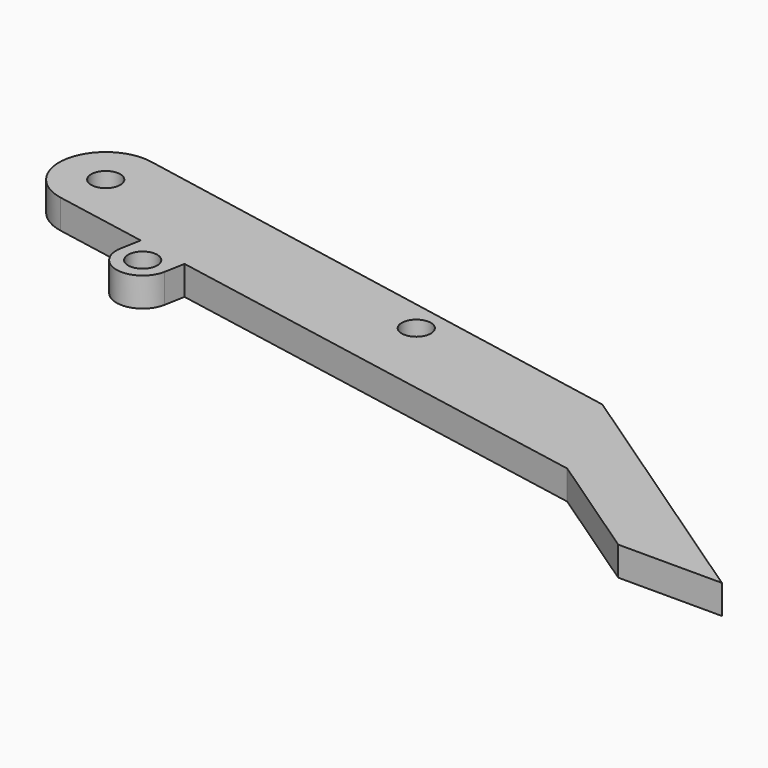
from build123d import *

# Parameters (mm, degrees)
F0_R     = 1.5875
F1_DEPTH = 3.175


with BuildPart() as f1:
    # F0 (on Top) → F1 (new body)
    with BuildSketch(Plane.XY):
        with BuildLine():
            ThreePointArc((-35.163477, 18.048558), (-30.98773, 19.1364), (-29.155026, 23.042993))
            ThreePointArc((-29.155026, 23.042993), (-30.323579, 26.28444), (-33.291634, 28.034627))
            ThreePointArc((-33.291634, 28.034627), (-39.228066, 23.978916), (-35.163477, 18.048558))
        make_face()
        with Locations((-34.235026, 23.042993)):
            Circle(F0_R, mode=Mode.SUBTRACT)
        with BuildLine():
            ThreePointArc((-33.291634, 28.034627), (-30.323579, 26.28444), (-29.155026, 23.042993))
            ThreePointArc((-29.155026, 23.042993), (-30.98773, 19.1364), (-35.163477, 18.048558))
            Line((-35.163477, 18.048558), (-24.894543, 16.139593))
            Line((-24.894543, 16.139593), (-19.275804, 15.095085))
            Line((-19.275804, 15.095085), (29.764174, 5.978694))
            Line((29.764174, 5.978694), (41.927618, -2.271442))
            Line((41.927618, -2.271442), (53.239989, -2.271442))
            Line((53.239989, -2.271442), (24.724426, 17.069897))
            Line((24.724426, 17.069897), (-33.291634, 28.034627))
        make_face()
        with Locations((3.551214, 18.163437)):
            Circle(F0_R, mode=Mode.SUBTRACT)
        with BuildLine():
            Line((-19.275804, 15.095085), (-24.894543, 16.139593))
            Line((-24.894543, 16.139593), (-25.305154, 13.930788))
            ThreePointArc((-25.305154, 13.930788), (-23.018038, 10.599165), (-19.686415, 12.886281))
            Line((-19.686415, 12.886281), (-19.275804, 15.095085))
        make_face()
        with Locations((-22.495784, 13.408534)):
            Circle(F0_R, mode=Mode.SUBTRACT)
    extrude(amount=F1_DEPTH)


solid = f1.part
